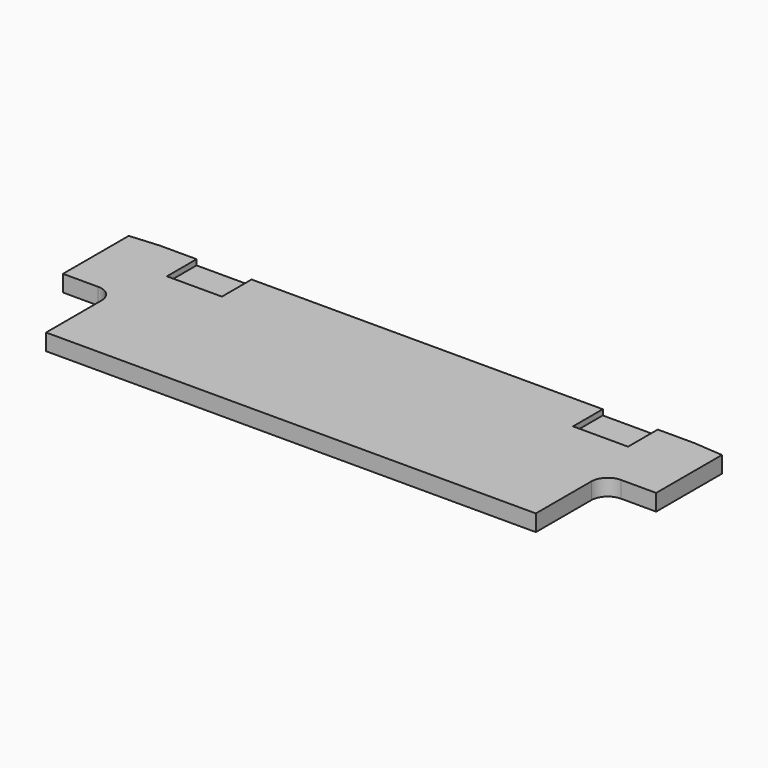
from build123d import *

# Parameters (mm, degrees)
F1_DEPTH = 3
F2_W     = 10
F2_H     = 6.75
F3_DEPTH = 1


with BuildPart() as f1:
    # F0 (on Top) → F1 (new body)
    with BuildSketch(Plane.XY):
        with BuildLine():
            Line((48.59, 15.475), (-48.59, 15.475))
            Line((-48.59, 15.475), (-53.92, 15.055))
            Line((-53.92, 15.055), (-53.92, 0.115))
            Line((-53.92, 0.115), (-47.52, 0.115))
            ThreePointArc((-47.52, 0.115), (-45.39868, -0.76368), (-44.52, -2.885))
            Line((-44.52, -2.885), (-44.52, -15.475))
            Line((-44.52, -15.475), (44.52, -15.475))
            Line((44.52, -15.475), (44.52, -2.885))
            ThreePointArc((44.52, -2.885), (45.39868, -0.76368), (47.52, 0.115))
            Line((47.52, 0.115), (53.92, 0.115))
            Line((53.92, 0.115), (53.92, 15.055))
            Line((53.92, 15.055), (48.59, 15.475))
        make_face()
    extrude(amount=F1_DEPTH)

    # F2 (on face) → F3 (cut)
    with BuildSketch(Plane.XY.offset(3)):
        with Locations((-36.92, 12.1)):
            Rectangle(F2_W, F2_H)
        with Locations((36.92, 12.1)):
            Rectangle(F2_W, F2_H)
    extrude(amount=-F3_DEPTH, mode=Mode.SUBTRACT)


solid = f1.part
